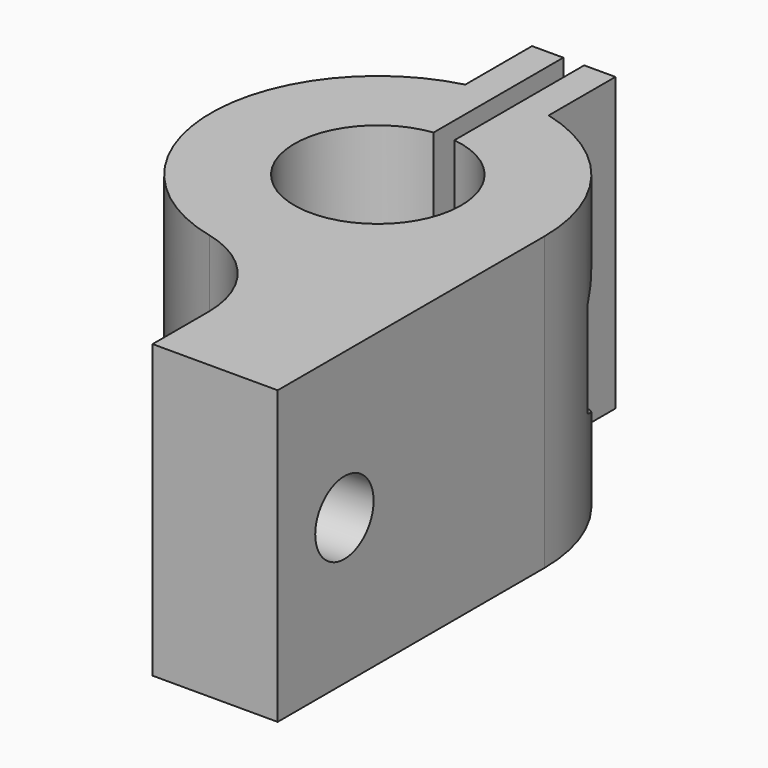
from build123d import *

# Parameters (mm, degrees)
F1_DEPTH  = 14
F2_R      = 3
F3_DEPTH  = 6.001
F4_R      = 1.75
F5_DEPTH  = 10.001
F7_DEPTH  = 6.0010001
F8_R      = 1.75
F9_DEPTH  = 6.001
F11_DEPTH = 10.0010001


with BuildPart() as f1:
    # F0 (on Top) → F1 (new body)
    with BuildSketch(Plane.XY):
        with BuildLine():
            Line((0.5, 11.7459666924), (0.5, 3.9686269666))
            ThreePointArc((0.5, 3.9686269666), (0, -4), (-0.5, 3.9686269666))
            Line((-0.5, 3.9686269666), (-0.5, 11.7459666924))
            Line((-0.5, 11.7459666924), (-2, 11.7459666924))
            Line((-2, 11.7459666924), (-2, 7.7459666924))
            ThreePointArc((-2, 7.7459666924), (-7.9996074848, -0.0792470114), (-1.8461538462, -7.7840680866))
            ThreePointArc((-1.8461538462, -7.7840680866), (0.9223227028, -9.5482422759), (2, -12.6491106407))
            Line((2, -12.6491106407), (2, -16))
            Line((2, -16), (8, -16))
            Line((8, -16), (8, 0))
            ThreePointArc((8, 0), (6.3245553203, 4.8989794856), (2, 7.7459666924))
            Line((2, 7.7459666924), (2, 11.7459666924))
            Line((2, 11.7459666924), (0.5, 11.7459666924))
        make_face()
    extrude(amount=F1_DEPTH)

    # F2 (on face) → F3 (cut, through all)
    with BuildSketch(Plane(origin=(-2, 0, 0), x_dir=(0, -1, 0), z_dir=(-1, 0, 0))):
        with Locations((-7.7459666924, 7)):
            Circle(F2_R)
    extrude(amount=F3_DEPTH, mode=Mode.SUBTRACT)

    # F4 (on face) → F5 (cut, through all)
    with BuildSketch(Plane(origin=(-2, 0, 0), x_dir=(0, -1, 0), z_dir=(-1, 0, 0))):
        with Locations((-7.7459666924, 7)):
            Circle(F4_R)
    extrude(amount=-F5_DEPTH, mode=Mode.SUBTRACT)

    # F6 (on face) → F7 (cut, through all)
    with BuildSketch(Plane.YZ.offset(2)):
        Polygon((3.7459666924, 4.6905989232), (7.7459666924, 2.3811978465), (11.7459666924, 4.6905989232), (11.7459666924, 9.3094010768), (7.7459666924, 11.6188021535), (3.7459666924, 9.3094010768), align=None)
    extrude(amount=F7_DEPTH, mode=Mode.SUBTRACT)

    # F8 (on face) → F9 (cut, through all)
    with BuildSketch(Plane(origin=(2, 0, 0), x_dir=(0, -1, 0), z_dir=(-1, 0, 0))):
        with Locations((12, 7)):
            Circle(F8_R)
    extrude(amount=-F9_DEPTH, mode=Mode.SUBTRACT)

    # F10 (on face) → F11 (cut, through all)
    with BuildSketch(Plane(origin=(2, 0, 0), x_dir=(0, -1, 0), z_dir=(-1, 0, 0))):
        Polygon((15.8407900553, 9.3094010768), (11.8407900553, 11.6188021535), (7.8407900553, 9.3094010768), (7.8407900553, 4.6905989232), (11.8407900553, 2.3811978465), (15.8407900553, 4.6905989232), align=None)
    extrude(amount=F11_DEPTH, mode=Mode.SUBTRACT)


solid = f1.part
